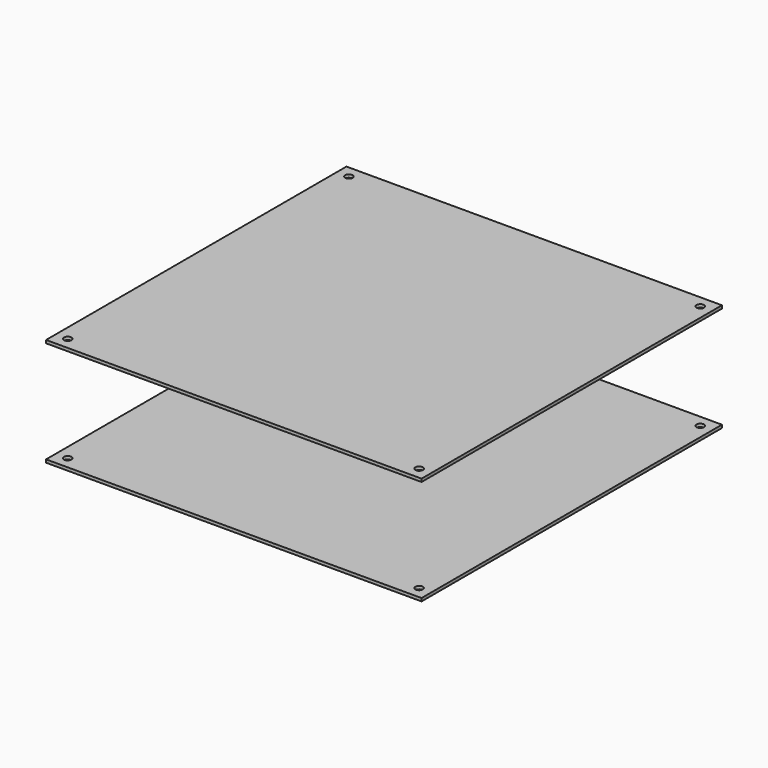
from build123d import *

# Parameters (mm, degrees)
F0_W     = 250
F0_H     = 250
F0_R     = 2.5
F1_DEPTH = 2


with BuildPart() as f1:
    # F0 (on Top) → F1 (new body)
    with BuildSketch(Plane.XY):
        Rectangle(F0_W, F0_H)
        with Locations((-117, -117)):
            Circle(F0_R, mode=Mode.SUBTRACT)
        with Locations((117, -117)):
            Circle(F0_R, mode=Mode.SUBTRACT)
        with Locations((-117, 117)):
            Circle(F0_R, mode=Mode.SUBTRACT)
        with Locations((117, 117)):
            Circle(F0_R, mode=Mode.SUBTRACT)
    extrude(amount=F1_DEPTH)


with BuildPart() as f2_1:
    # F2: copy of F1
    add(f1.part.moved(Location((0, 0, 70))))


solid = Compound([f1.part, f2_1.part])
